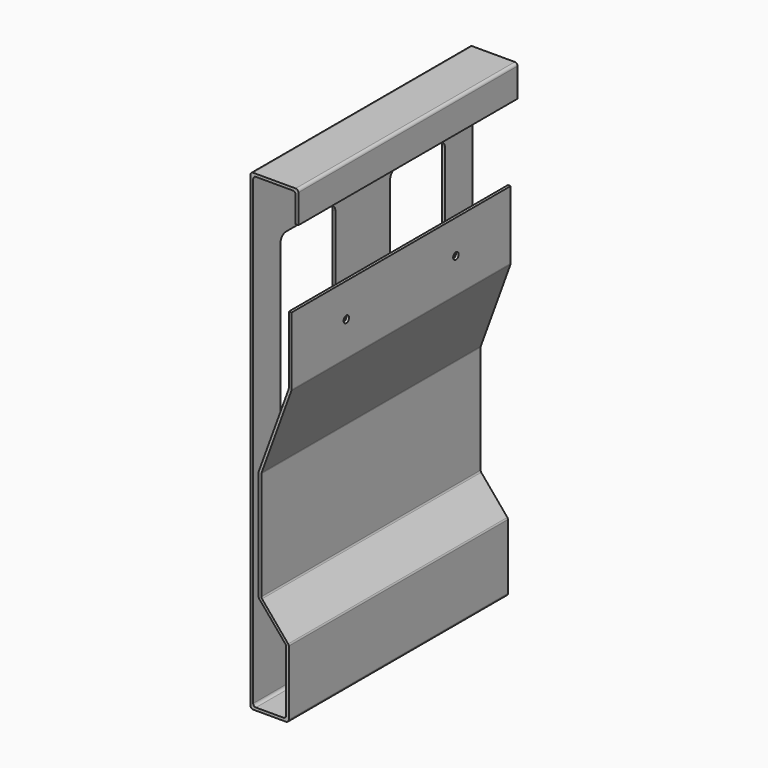
from build123d import *

# Parameters (mm, degrees)
F1_DEPTH = 200
F2_R     = 2
F4_DEPTH = 2
F6_D     = 5
F6_DEPTH = 2


with BuildPart() as f1:
    # F0 (on Front) → F1 (new body)
    with BuildSketch(Plane.XZ):
        Polygon((35, 0), (0, 0), (0, -345), (28, -345), (28, -295), (8, -271.164928), (8, -191.164928), (30, -130.720425), (30, -80.720425), (28, -80.720425), (28, -130.367771), (6, -190.812274), (6, -271.892869), (26, -295.72794), (26, -343), (2, -343), (2, -2), (33, -2), (33, -23), (35, -23), align=None)
    extrude(amount=F1_DEPTH)

    # F2
    f2_edges = [f1.edges().sort_by_distance(p)[0] for p in [
        (0, -100, 0),
        (35, -100, 0),
        (33, -100, -2),
        (2, -100, -2),
        (0, -100, -345),
        (2, -100, -343),
        (28, -100, -345),
        (26, -100, -343),
        (26, -100, -295.72794),
        (28, -100, -295),
        (8, -100, -271.164928),
        (6, -100, -271.892869),
        (6, -100, -190.812274),
        (8, -100, -191.164928),
        (30, -100, -130.720425),
        (28, -100, -130.367771),
    ]]
    fillet(f2_edges, radius=F2_R)

    # F3 (on face) → F4 (cut)
    with BuildSketch(Plane(origin=(0, 0, 0), x_dir=(0, -1, 0), z_dir=(-1, 0, 0))):
        with BuildLine():
            Line((70, -50), (30, -50))
            ThreePointArc((30, -50), (26.464466, -51.464466), (25, -55))
            Line((25, -55), (25, -290))
            ThreePointArc((25, -290), (26.464466, -293.535534), (30, -295))
            Line((30, -295), (70, -295))
            ThreePointArc((70, -295), (73.535534, -293.535534), (75, -290))
            Line((75, -290), (75, -55))
            ThreePointArc((75, -55), (73.535534, -51.464466), (70, -50))
        make_face()
        with BuildLine():
            ThreePointArc((175, -55), (173.535534, -51.464466), (170, -50))
            Line((170, -50), (130, -50))
            ThreePointArc((130, -50), (126.464466, -51.464466), (125, -55))
            Line((125, -55), (125, -290))
            ThreePointArc((125, -290), (126.464466, -293.535534), (130, -295))
            Line((130, -295), (170, -295))
            ThreePointArc((170, -295), (173.535534, -293.535534), (175, -290))
            Line((175, -290), (175, -55))
        make_face()
    extrude(amount=-F4_DEPTH, mode=Mode.SUBTRACT)

    # F6
    with Locations(Plane(origin=(28, 0, 0), x_dir=(0, -1, 0), z_dir=(-1, 0, 0))):
        with Locations((50, -105.367771), (150, -105.367771)):
            Hole(F6_D / 2, depth=F6_DEPTH)


solid = f1.part
